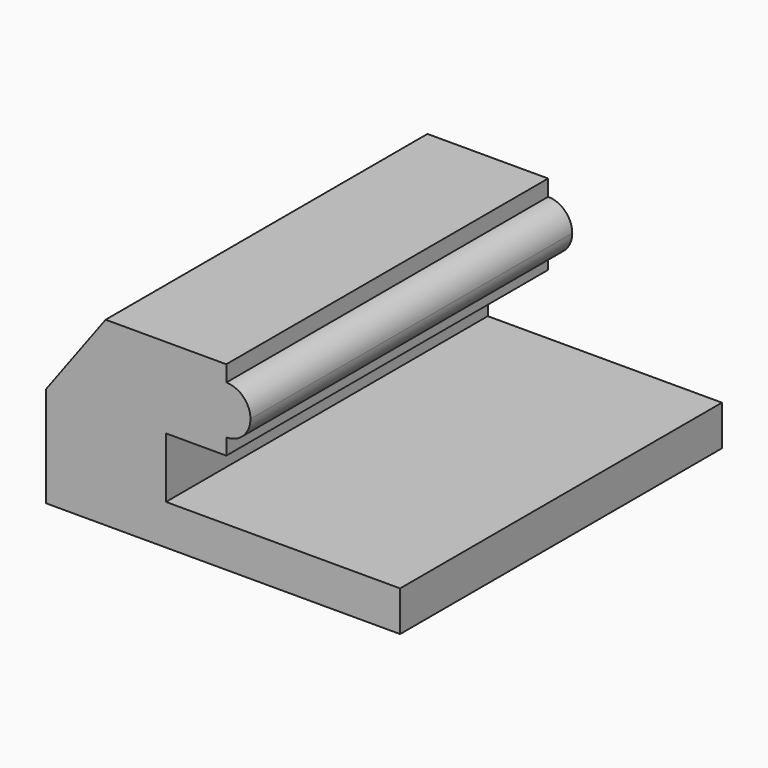
from build123d import *

# Parameters (mm, degrees)
F1_DEPTH = 100


with BuildPart() as f1:
    # F0 (on Front) → F1 (new body)
    with BuildSketch(Plane.XZ):
        with BuildLine():
            Line((0, 25), (0, 0))
            Line((0, 0), (88, 0))
            Line((88, 0), (88, 10))
            Line((88, 10), (29.799222, 10))
            Line((29.799222, 10), (29.799222, 25))
            Line((29.799222, 25), (44.799222, 25))
            Line((44.799222, 25), (44.799222, 29))
            ThreePointArc((44.799222, 29), (38.799222, 35), (44.799222, 41))
            Line((44.799222, 41), (44.799222, 45))
            Line((44.799222, 45), (14.799222, 45))
            Line((14.799222, 45), (0, 25))
        make_face()
        with BuildLine():
            ThreePointArc((50.799222, 35), (49.041862, 39.242641), (44.799222, 41))
            ThreePointArc((44.799222, 41), (38.799222, 35), (44.799222, 29))
            ThreePointArc((44.799222, 29), (49.041862, 30.757359), (50.799222, 35))
        make_face()
    extrude(amount=F1_DEPTH)


solid = f1.part
